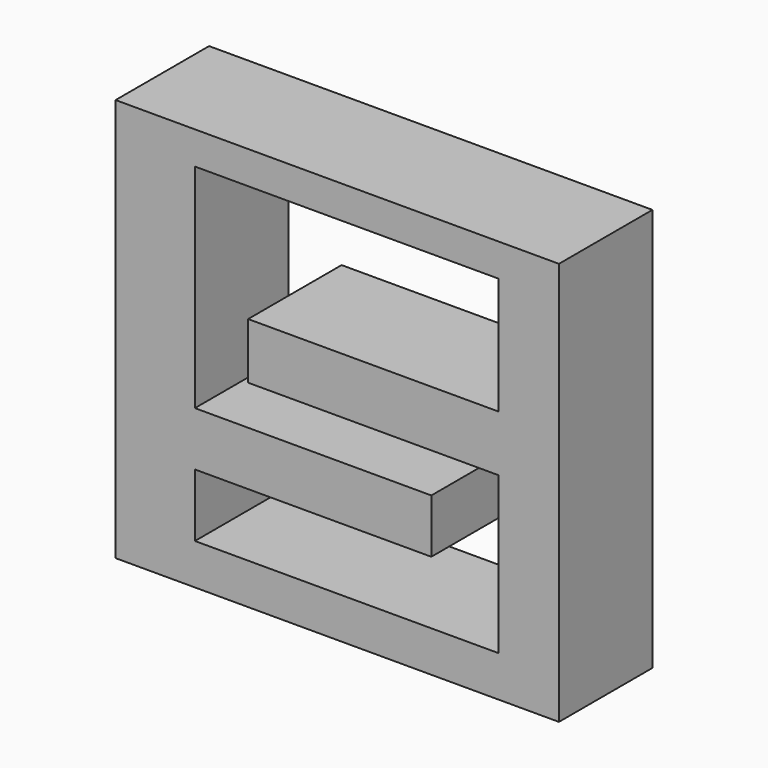
from build123d import *

# Parameters (mm, degrees)
F0_W     = 96.367601
F0_H     = 87.655403
F1_DEPTH = 25.4
F4_DEPTH = 25.4


with BuildPart() as f1:
    # F0 (on Front) → F1 (new body)
    with BuildSketch(Plane.XZ):
        with Locations((1.689101, 0.889)):
            Rectangle(F0_W, F0_H)
    extrude(amount=F1_DEPTH)

    # F3 (on face) + F2 (on face) → F4 (cut)
    with BuildSketch(Plane.XZ.offset(25.4)):
        Polygon((36.715697, 12.179299), (36.715697, 37.604701), (-29.248102, 37.604701), (-29.248102, -8.6233), (22.1361, -8.6233), (22.1361, -20.358101), (-29.248102, -20.358101), (-29.248102, -34.048699), (36.715697, -34.048699), (36.715697, 0), (-17.6911, 0), (-17.6911, 12.179299), align=None)
    with BuildSketch(Plane.XZ.offset(25.4)):
        Polygon((36.715697, 37.604701), (-29.248102, 37.604701), (-29.248102, -8.6233), (22.1361, -8.6233), (22.1361, -20.358101), (-29.248102, -20.358101), (-29.248102, -34.048699), (36.715697, -34.048699), (36.715697, 0), (-17.6911, 0), (-17.6911, 12.179299), (36.715697, 12.179299), align=None)
    extrude(amount=-F4_DEPTH, mode=Mode.SUBTRACT)


solid = f1.part
